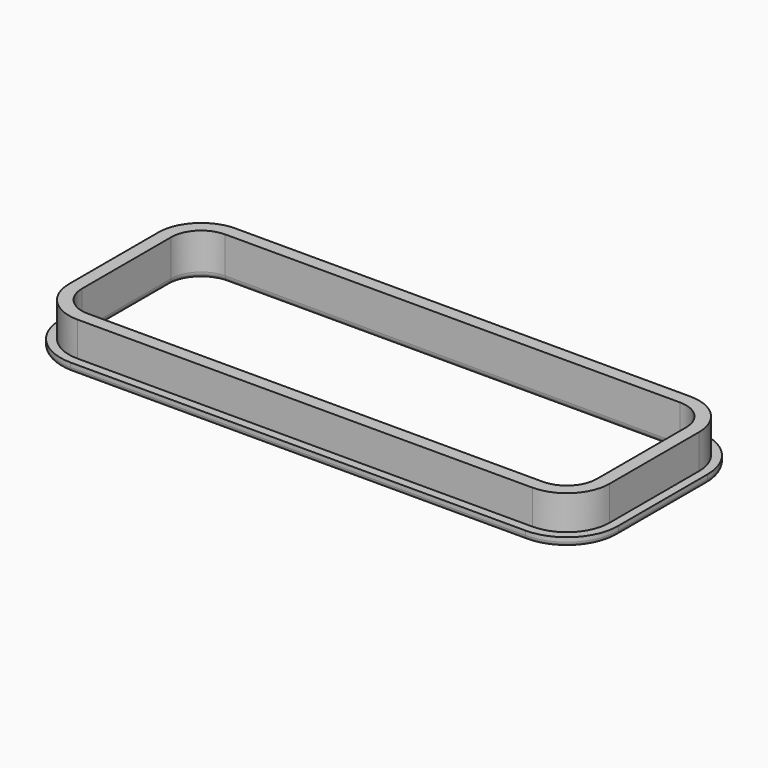
from build123d import *

# Parameters (mm, degrees)
BOX_W        = 120
BOX_H        = 40
BOX_DEPTH    = 10
FILLET_R     = 7
BOX002_W     = 130
BOX002_H     = 50
BOX002_DEPTH = 2
FILLET002_R  = 12
BOX001_W     = 126
BOX001_H     = 46
BOX001_DEPTH = 10
FILLET001_R  = 10
FILLET003_R  = 1.5
FILLET004_R  = 1


with BuildPart() as fillet_body:
    # Box → Box (new body)
    with BuildSketch(Plane.XY):
        with Locations((60, 20)):
            Rectangle(BOX_W, BOX_H)
    extrude(amount=BOX_DEPTH)

    # Fillet
    fillet_edges = [fillet_body.edges().sort_by_distance(p)[0] for p in [
        (0, 0, 5),
        (0, 40, 5),
        (120, 0, 5),
        (120, 40, 5),
    ]]
    fillet(fillet_edges, radius=FILLET_R)


with BuildPart() as fillet_body_1:
    # Fillet placement: moved
    add(fillet_body.part.moved(Location((5, 5, 0))))


with BuildPart() as fillet002:
    # Box002 → Box002 (new body)
    with BuildSketch(Plane.XY):
        with Locations((65, 25)):
            Rectangle(BOX002_W, BOX002_H)
    extrude(amount=BOX002_DEPTH)

    # Fillet002
    fillet002_edges = [fillet002.edges().sort_by_distance(p)[0] for p in [
        (0, 0, 1),
        (0, 50, 1),
        (130, 0, 1),
        (130, 50, 1),
    ]]
    fillet(fillet002_edges, radius=FILLET002_R)


with BuildPart() as fillet004:
    # Box001 → Box001 (new body)
    with BuildSketch(Plane.XY):
        with Locations((63, 23)):
            Rectangle(BOX001_W, BOX001_H)
    extrude(amount=BOX001_DEPTH)

    # Fillet001
    fillet001_edges = [fillet004.edges().sort_by_distance(p)[0] for p in [
        (0, 0, 5),
        (0, 46, 5),
        (126, 0, 5),
        (126, 46, 5),
    ]]
    fillet(fillet001_edges, radius=FILLET001_R)


with BuildPart() as fillet004_1:
    # Fillet001 placement: moved
    add(fillet004.part.moved(Location((2, 2, 0))))

    # Fusion: union Fillet002
    add(fillet002.part)

    # Cut: cut Fillet body
    add(fillet_body_1.part, mode=Mode.SUBTRACT)

    # Fillet003
    fillet003_edges = [fillet004_1.edges().sort_by_distance(p)[0] for p in [
        (7.050253, 7.050253, 0),
        (65, 5, 0),
        (122.949747, 7.050253, 0),
        (125, 25, 0),
        (122.949747, 42.949747, 0),
        (65, 45, 0),
        (7.050253, 42.949747, 0),
        (5, 25, 0),
    ]]
    fillet(fillet003_edges, radius=FILLET003_R)

    # Fillet004
    fillet004_edges = [fillet004_1.edges().sort_by_distance(p)[0] for p in [
        (0, 25, 0),
        (3.514719, 3.514719, 0),
        (3.514719, 46.485281, 0),
        (65, 0, 0),
        (65, 50, 0),
        (126.485281, 3.514719, 0),
        (126.485281, 46.485281, 0),
        (130, 25, 0),
    ]]
    fillet(fillet004_edges, radius=FILLET004_R)


solid = fillet004_1.part
